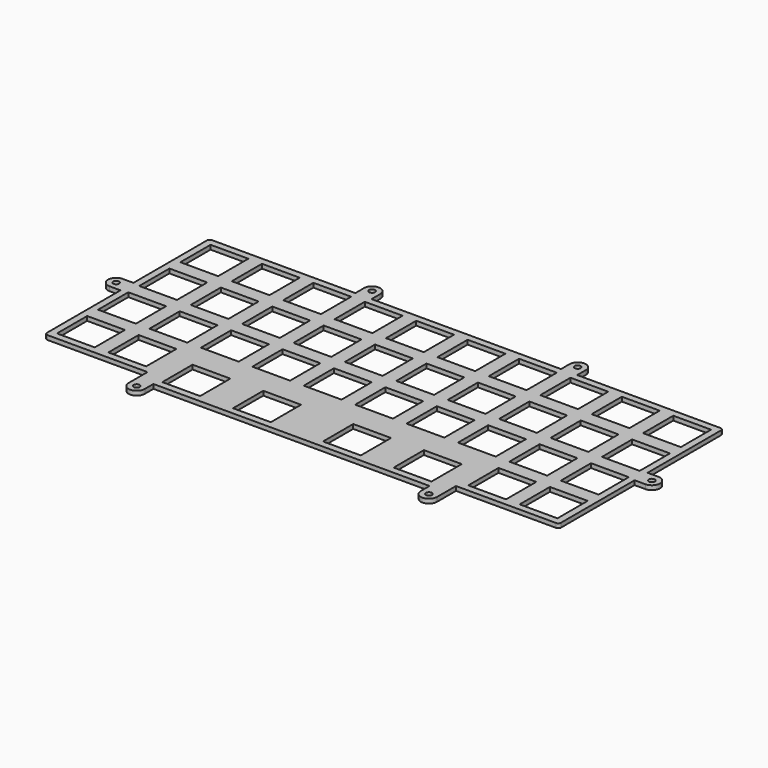
from build123d import *

# Parameters (mm, degrees)
PAD002_DEPTH                        = 1.6
SKETCH009_W                         = 14
SKETCH009_H                         = 14
POCKET007_DEPTH                     = 1.6
SKETCH009_LINEARPATTERN001_2_W      = 14
SKETCH009_LINEARPATTERN001_2_H      = 14
POCKET007_LINEARPATTERN001_2_DEPTH  = 1.6
SKETCH009_LINEARPATTERN001_3_W      = 14
SKETCH009_LINEARPATTERN001_3_H      = 14
POCKET007_LINEARPATTERN001_3_DEPTH  = 1.6
SKETCH009_LINEARPATTERN001_4_W      = 14
SKETCH009_LINEARPATTERN001_4_H      = 14
POCKET007_LINEARPATTERN001_4_DEPTH  = 1.6
SKETCH009_LINEARPATTERN001_5_W      = 14
SKETCH009_LINEARPATTERN001_5_H      = 14
POCKET007_LINEARPATTERN001_5_DEPTH  = 1.6
SKETCH009_LINEARPATTERN001_6_W      = 14
SKETCH009_LINEARPATTERN001_6_H      = 14
POCKET007_LINEARPATTERN001_6_DEPTH  = 1.6
SKETCH009_LINEARPATTERN001_7_W      = 14
SKETCH009_LINEARPATTERN001_7_H      = 14
POCKET007_LINEARPATTERN001_7_DEPTH  = 1.6
SKETCH009_LINEARPATTERN001_8_W      = 14
SKETCH009_LINEARPATTERN001_8_H      = 14
POCKET007_LINEARPATTERN001_8_DEPTH  = 1.6
SKETCH009_LINEARPATTERN001_9_W      = 14
SKETCH009_LINEARPATTERN001_9_H      = 14
POCKET007_LINEARPATTERN001_9_DEPTH  = 1.6
SKETCH009_LINEARPATTERN001_10_W     = 14
SKETCH009_LINEARPATTERN001_10_H     = 14
POCKET007_LINEARPATTERN001_10_DEPTH = 1.6
LINEARPATTERN002_COUNT              = 3
LINEARPATTERN002_PITCH              = 19.05
SKETCH010_W                         = 14
SKETCH010_H                         = 14
POCKET008_DEPTH                     = 1.6
SKETCH023_R                         = 1.1
PAD005_DEPTH                        = 1.6


with BuildPart() as part:
    # Sketch008 (on DatumPlane) → Pad002 (new body)
    with BuildSketch(Plane.XY.offset(-1.6)):
        with BuildLine():
            ThreePointArc((-94.25, 35.1), (-94.957107, 34.807107), (-95.25, 34.1))
            Line((-95.25, -40.1), (-95.25, 34.1))
            ThreePointArc((-95.25, -40.1), (-94.957107, -40.807107), (-94.25, -41.1))
            Line((-94.25, -41.1), (-57.15, -41.1))
            Line((-57.15, -41.1), (-57.15, -45.8625))
            Line((-57.15, -45.8625), (57.15, -45.8625))
            Line((57.15, -45.8625), (57.15, -41.1))
            Line((57.15, -41.1), (94.25, -41.1))
            ThreePointArc((94.25, -41.1), (94.957107, -40.807107), (95.25, -40.1))
            Line((95.25, 34.1), (95.25, -40.1))
            ThreePointArc((95.25, 34.1), (94.957107, 34.807107), (94.25, 35.1))
            Line((-94.25, 35.1), (94.25, 35.1))
        make_face()
    extrude(amount=PAD002_DEPTH)

    # Sketch009 (on DatumPlane) → Pocket007 (cut)
    with BuildSketch(Plane.XY.offset(-1.6)):
        with Locations((-85.725, 25.575)):
            Rectangle(SKETCH009_W, SKETCH009_H)
    pocket007 = extrude(amount=POCKET007_DEPTH, mode=Mode.SUBTRACT)

    # Sketch009 LinearPattern001 2 → Pocket007 LinearPattern001 2 (cut)
    with BuildSketch(Plane(origin=(19.05, 0, -1.6), x_dir=(1, 0, 0), z_dir=(0, 0, 1))):
        with Locations((-85.725, 25.575)):
            Rectangle(SKETCH009_LINEARPATTERN001_2_W, SKETCH009_LINEARPATTERN001_2_H)
    pocket007_linearpattern001_2 = extrude(amount=POCKET007_LINEARPATTERN001_2_DEPTH, mode=Mode.SUBTRACT)

    # Sketch009 LinearPattern001 3 → Pocket007 LinearPattern001 3 (cut)
    with BuildSketch(Plane(origin=(38.1, 0, -1.6), x_dir=(1, 0, 0), z_dir=(0, 0, 1))):
        with Locations((-85.725, 25.575)):
            Rectangle(SKETCH009_LINEARPATTERN001_3_W, SKETCH009_LINEARPATTERN001_3_H)
    pocket007_linearpattern001_3 = extrude(amount=POCKET007_LINEARPATTERN001_3_DEPTH, mode=Mode.SUBTRACT)

    # Sketch009 LinearPattern001 4 → Pocket007 LinearPattern001 4 (cut)
    with BuildSketch(Plane(origin=(57.15, 0, -1.6), x_dir=(1, 0, 0), z_dir=(0, 0, 1))):
        with Locations((-85.725, 25.575)):
            Rectangle(SKETCH009_LINEARPATTERN001_4_W, SKETCH009_LINEARPATTERN001_4_H)
    pocket007_linearpattern001_4 = extrude(amount=POCKET007_LINEARPATTERN001_4_DEPTH, mode=Mode.SUBTRACT)

    # Sketch009 LinearPattern001 5 → Pocket007 LinearPattern001 5 (cut)
    with BuildSketch(Plane(origin=(76.2, 0, -1.6), x_dir=(1, 0, 0), z_dir=(0, 0, 1))):
        with Locations((-85.725, 25.575)):
            Rectangle(SKETCH009_LINEARPATTERN001_5_W, SKETCH009_LINEARPATTERN001_5_H)
    pocket007_linearpattern001_5 = extrude(amount=POCKET007_LINEARPATTERN001_5_DEPTH, mode=Mode.SUBTRACT)

    # Sketch009 LinearPattern001 6 → Pocket007 LinearPattern001 6 (cut)
    with BuildSketch(Plane(origin=(95.25, 0, -1.6), x_dir=(1, 0, 0), z_dir=(0, 0, 1))):
        with Locations((-85.725, 25.575)):
            Rectangle(SKETCH009_LINEARPATTERN001_6_W, SKETCH009_LINEARPATTERN001_6_H)
    pocket007_linearpattern001_6 = extrude(amount=POCKET007_LINEARPATTERN001_6_DEPTH, mode=Mode.SUBTRACT)

    # Sketch009 LinearPattern001 7 → Pocket007 LinearPattern001 7 (cut)
    with BuildSketch(Plane(origin=(114.3, 0, -1.6), x_dir=(1, 0, 0), z_dir=(0, 0, 1))):
        with Locations((-85.725, 25.575)):
            Rectangle(SKETCH009_LINEARPATTERN001_7_W, SKETCH009_LINEARPATTERN001_7_H)
    pocket007_linearpattern001_7 = extrude(amount=POCKET007_LINEARPATTERN001_7_DEPTH, mode=Mode.SUBTRACT)

    # Sketch009 LinearPattern001 8 → Pocket007 LinearPattern001 8 (cut)
    with BuildSketch(Plane(origin=(133.35, 0, -1.6), x_dir=(1, 0, 0), z_dir=(0, 0, 1))):
        with Locations((-85.725, 25.575)):
            Rectangle(SKETCH009_LINEARPATTERN001_8_W, SKETCH009_LINEARPATTERN001_8_H)
    pocket007_linearpattern001_8 = extrude(amount=POCKET007_LINEARPATTERN001_8_DEPTH, mode=Mode.SUBTRACT)

    # Sketch009 LinearPattern001 9 → Pocket007 LinearPattern001 9 (cut)
    with BuildSketch(Plane(origin=(152.4, 0, -1.6), x_dir=(1, 0, 0), z_dir=(0, 0, 1))):
        with Locations((-85.725, 25.575)):
            Rectangle(SKETCH009_LINEARPATTERN001_9_W, SKETCH009_LINEARPATTERN001_9_H)
    pocket007_linearpattern001_9 = extrude(amount=POCKET007_LINEARPATTERN001_9_DEPTH, mode=Mode.SUBTRACT)

    # Sketch009 LinearPattern001 10 → Pocket007 LinearPattern001 10 (cut)
    with BuildSketch(Plane(origin=(171.45, 0, -1.6), x_dir=(1, 0, 0), z_dir=(0, 0, 1))):
        with Locations((-85.725, 25.575)):
            Rectangle(SKETCH009_LINEARPATTERN001_10_W, SKETCH009_LINEARPATTERN001_10_H)
    pocket007_linearpattern001_10 = extrude(amount=POCKET007_LINEARPATTERN001_10_DEPTH, mode=Mode.SUBTRACT)

    # LinearPattern002: Pocket007, Pocket007 LinearPattern001 2, Pocket007 LinearPattern001 3, Pocket007 LinearPattern001 4, Pocket007 LinearPattern001 5, Pocket007 LinearPattern001 6, Pocket007 LinearPattern001 7, Pocket007 LinearPattern001 8, Pocket007 LinearPattern001 9, Pocket007 LinearPattern001 10 ×3
    with Locations(*[(0, -i * LINEARPATTERN002_PITCH, 0) for i in range(1, LINEARPATTERN002_COUNT)]):
        add(pocket007, mode=Mode.SUBTRACT)
        add(pocket007_linearpattern001_2, mode=Mode.SUBTRACT)
        add(pocket007_linearpattern001_3, mode=Mode.SUBTRACT)
        add(pocket007_linearpattern001_4, mode=Mode.SUBTRACT)
        add(pocket007_linearpattern001_5, mode=Mode.SUBTRACT)
        add(pocket007_linearpattern001_6, mode=Mode.SUBTRACT)
        add(pocket007_linearpattern001_7, mode=Mode.SUBTRACT)
        add(pocket007_linearpattern001_8, mode=Mode.SUBTRACT)
        add(pocket007_linearpattern001_9, mode=Mode.SUBTRACT)
        add(pocket007_linearpattern001_10, mode=Mode.SUBTRACT)

    # Sketch010 (on DatumPlane) → Pocket008 (cut)
    with BuildSketch(Plane.XY.offset(-1.6)):
        with Locations((-85.725, -31.575)):
            Rectangle(SKETCH010_W, SKETCH010_H)
        with Locations((-66.675, -31.575)):
            Rectangle(SKETCH010_W, SKETCH010_H)
        with Locations((-42.8625, -36.3375)):
            Rectangle(SKETCH010_W, SKETCH010_H)
        with Locations((-16.66875, -36.3375)):
            Rectangle(SKETCH010_W, SKETCH010_H)
        with Locations((42.8625, -36.3375)):
            Rectangle(SKETCH010_W, SKETCH010_H)
        with Locations((66.675, -31.575)):
            Rectangle(SKETCH010_W, SKETCH010_H)
        with Locations((85.725, -31.575)):
            Rectangle(SKETCH010_W, SKETCH010_H)
        with Locations((16.66875, -36.3375)):
            Rectangle(SKETCH010_W, SKETCH010_H)
    extrude(amount=POCKET008_DEPTH, mode=Mode.SUBTRACT)

    # Sketch023 (on DatumPlane) → Pad005 (join)
    with BuildSketch(Plane.XY.offset(-1.6)):
        with BuildLine():
            ThreePointArc((-35.1, 39.1), (-38.1, 42.1), (-41.1, 39.1))
            Line((-41.1, 39.1), (-41.1, 34.6))
            Line((-41.1, 34.6), (-35.1, 34.6))
            Line((-35.1, 34.6), (-35.1, 39.1))
        make_face()
        with Locations((-38.1, 39.1)):
            Circle(SKETCH023_R, mode=Mode.SUBTRACT)
        with BuildLine():
            ThreePointArc((41.1, 39.1), (38.1, 42.1), (35.1, 39.1))
            Line((35.1, 34.6), (35.1, 39.1))
            Line((41.1, 34.6), (35.1, 34.6))
            Line((41.1, 39.1), (41.1, 34.6))
        make_face()
        with Locations((38.1, 39.1)):
            Circle(SKETCH023_R, mode=Mode.SUBTRACT)
        with BuildLine():
            ThreePointArc((-99.25, 0), (-102.25, -3), (-99.25, -6))
            Line((-94.75, -6), (-99.25, -6))
            Line((-94.75, 0), (-94.75, -6))
            Line((-99.25, 0), (-94.75, 0))
        make_face()
        with Locations((-99.25, -3)):
            Circle(SKETCH023_R, mode=Mode.SUBTRACT)
        with BuildLine():
            ThreePointArc((99.25, -6), (102.25, -3), (99.25, 0))
            Line((99.25, 0), (94.75, 0))
            Line((94.75, 0), (94.75, -6))
            Line((94.75, -6), (99.25, -6))
        make_face()
        with Locations((99.25, -3)):
            Circle(SKETCH023_R, mode=Mode.SUBTRACT)
        with BuildLine():
            ThreePointArc((-57.15, -49.8625), (-54.15, -52.8625), (-51.15, -49.8625))
            Line((-51.15, -49.8625), (-51.15, -45.3625))
            Line((-51.15, -45.3625), (-57.15, -45.3625))
            Line((-57.15, -45.3625), (-57.15, -49.8625))
        make_face()
        with Locations((-54.15, -49.8625)):
            Circle(SKETCH023_R, mode=Mode.SUBTRACT)
        with BuildLine():
            ThreePointArc((51.15, -49.8625), (54.15, -52.8625), (57.15, -49.8625))
            Line((57.15, -49.8625), (57.15, -45.3625))
            Line((57.15, -45.3625), (51.15, -45.3625))
            Line((51.15, -45.3625), (51.15, -49.8625))
        make_face()
        with Locations((54.15, -49.8625)):
            Circle(SKETCH023_R, mode=Mode.SUBTRACT)
    extrude(amount=PAD005_DEPTH)


solid = part.part
